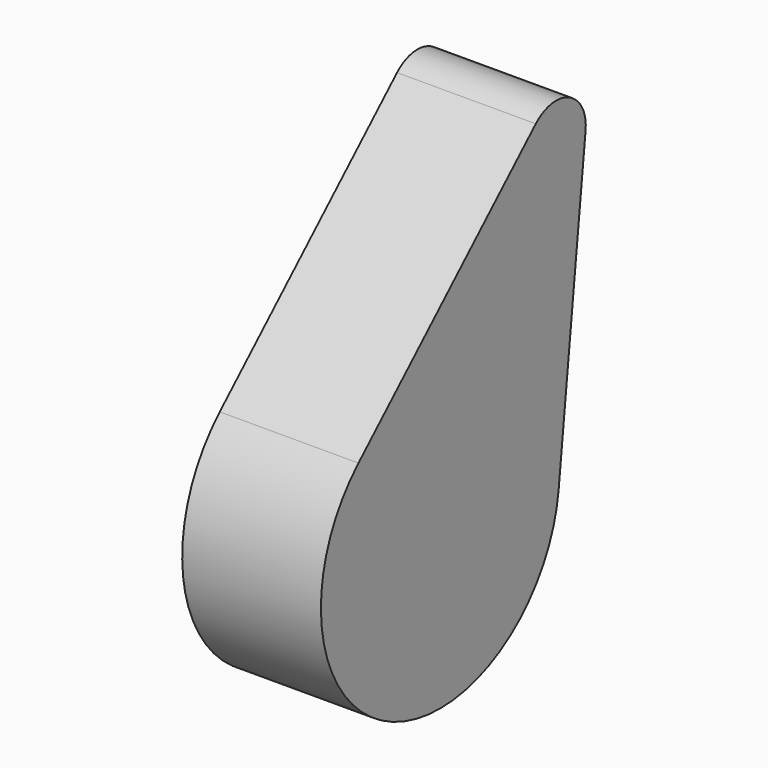
from build123d import *

# Parameters (mm, degrees)
F1_DEPTH = 30


with BuildPart() as f1:
    # F0 (on Right) → F1 (new body)
    with BuildSketch(Plane.YZ):
        with BuildLine():
            Line((25.844965, 68.582864), (-22.090235, 23.474664))
            ThreePointArc((-22.090235, 23.474664), (-14.405772, -28.835951), (32.036295, -3.565694))
            Line((32.036295, -3.565694), (39.317433, 61.852331))
            ThreePointArc((39.317433, 61.852331), (34.929074, 69.917325), (25.844965, 68.582864))
        make_face()
    extrude(amount=F1_DEPTH)


solid = f1.part
